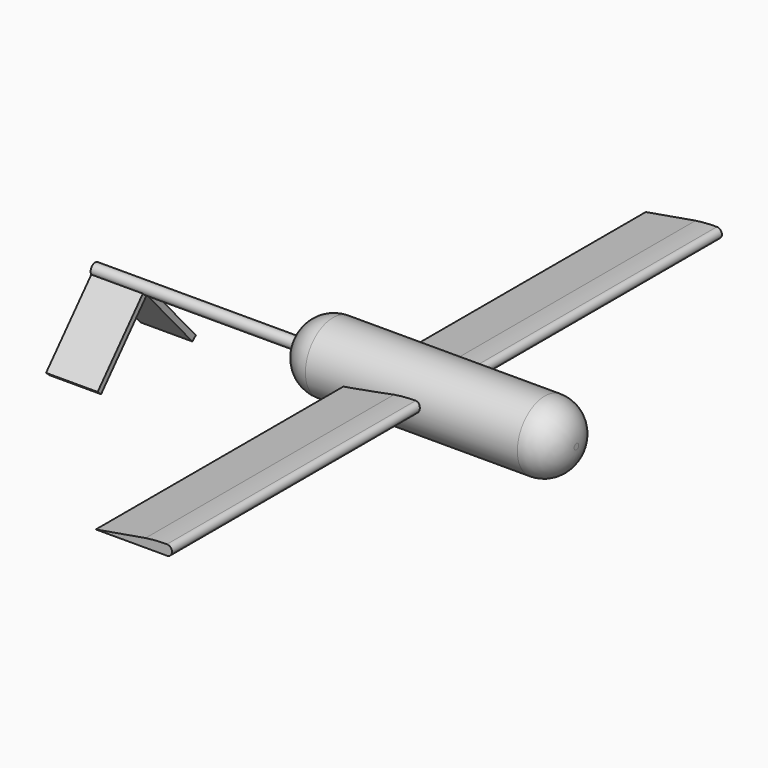
from build123d import *

# Parameters (mm, degrees)
F0_R          = 304.8
F1_DEPTH      = 2438.4
F2_R          = 279.4
F4_DEPTH      = 3048
F5_R          = 50.8
F6_DEPTH      = 1828.8
F6_DEPTH_BACK = 50.8
F9_DEPTH      = 457.2


with BuildPart() as f1:
    # F0 (on Right) → F1 (new body)
    with BuildSketch(Plane.YZ):
        Circle(F0_R)
    extrude(amount=F1_DEPTH)

    # F2
    f2_edges = [f1.edges().sort_by_distance(p)[0] for p in [
        (2438.4, -304.8, 0),
        (0, -304.8, 0),
    ]]
    fillet(f2_edges, radius=F2_R)


with BuildPart() as f4:
    # F3 (on Front) → F4 (new body, symmetric)
    with BuildSketch(Plane.XZ):
        with BuildLine():
            Line((1056.9108128548, 76.3400439173), (615.4662966728, 0))
            Line((615.4662966728, 0), (1246.1014389992, 0))
            ThreePointArc((1246.1014389992, 0), (1290.909727104, 44.8082881048), (1246.1014389992, 89.6165762097))
            ThreePointArc((1246.1014389992, 89.6165762097), (1151.2734904151, 86.2933668251), (1056.9108128548, 76.3400439173))
        make_face()
    extrude(amount=F4_DEPTH, both=True)


with BuildPart() as f6:
    # F5 (on Right) → F6 (new body, two sides)
    with BuildSketch(Plane.YZ) as f6_sk:
        Circle(F5_R)
    extrude(amount=-F6_DEPTH)
    extrude(f6_sk.sketch, amount=F6_DEPTH_BACK)


with BuildPart() as f9:
    # F8 (on offset) → F9 (new body)
    with BuildSketch(Plane.YZ.offset(-1828.8)):
        Polygon((41.949292923, -25.3832764938), (0, -54.6543938773), (506.2418571272, -624.1833063062), (544.2104512891, -590.4338491644), align=None)
    extrude(amount=F9_DEPTH)


with BuildPart() as f9b:
    # F8 (on offset) → F9, piece 2 (new body)
    with BuildSketch(Plane.YZ.offset(-1828.8)):
        Polygon((-506.2418571272, -624.1833063062), (0, -54.6543938773), (-41.949292923, -25.3832764938), (-544.2104512891, -590.4338491644), align=None)
    extrude(amount=F9_DEPTH)


solid = Compound([f1.part, f4.part, f6.part, f9.part, f9b.part])
